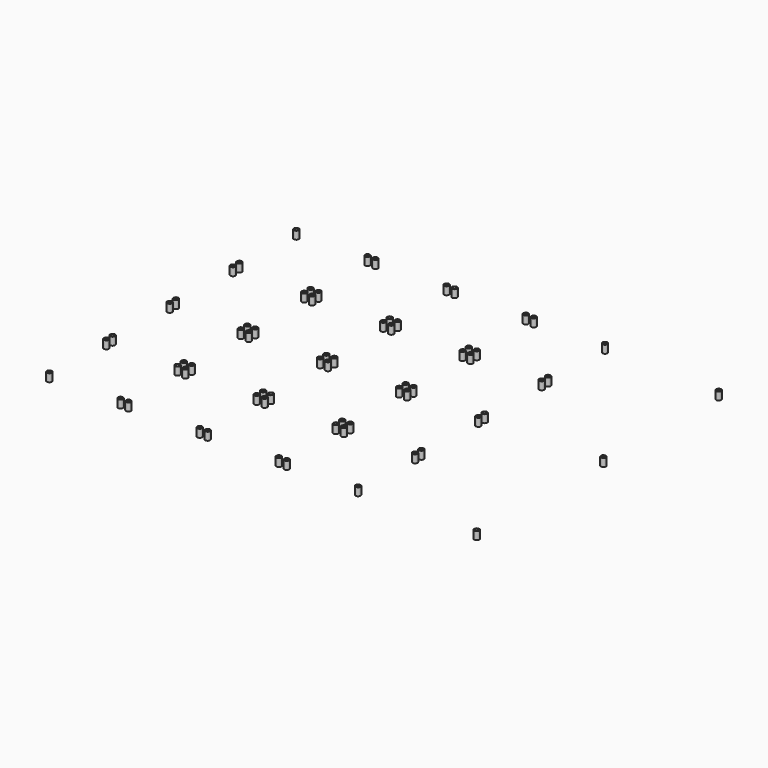
from build123d import *

# Parameters (mm, degrees)
CYLINDER015_R     = 1.1
CYLINDER015_DEPTH = 5
CYLINDER014_R     = 1.6
CYLINDER014_DEPTH = 5
ARRAY020_X_COUNT  = 2
ARRAY020_X_PITCH  = 45
ARRAY020_Y_COUNT  = 2
ARRAY020_Y_PITCH  = 45
ARRAY021_X_COUNT  = 4
ARRAY021_X_PITCH  = 50
ARRAY021_Y_COUNT  = 4
ARRAY021_Y_PITCH  = 50


with BuildPart() as cylinder015:
    # Cylinder015 → Cylinder015 (new body)
    with BuildSketch(Plane.XY):
        Circle(CYLINDER015_R)
    extrude(amount=CYLINDER015_DEPTH)


with BuildPart() as cut029:
    # Cylinder014 → Cylinder014 (new body)
    with BuildSketch(Plane.XY):
        Circle(CYLINDER014_R)
    extrude(amount=CYLINDER014_DEPTH)

    # Cut029: cut Cylinder015
    add(cylinder015.part, mode=Mode.SUBTRACT)


with BuildPart() as cut029_1:
    # Cut029 placement: moved
    add(cut029.part.moved(Location((2.5, -2.5, -5.8))))


with BuildPart() as clone_of_cut029:
    # Clone020 base: copy of Cut029
    add(cut029_1.part)


with BuildPart() as clone_of_cut029_1:
    # Clone020 placement: moved
    add(clone_of_cut029.part.moved(Location((270, -4, 0))))


with BuildPart() as clone_of_clone_of_cut029:
    # Clone021 base: copy of Clone of Cut029
    add(clone_of_cut029_1.part)


with BuildPart() as clone_of_clone_of_cut029_1:
    # Clone021 placement: moved
    add(clone_of_clone_of_cut029.part.moved(Location((0, -91, 0))))


with BuildPart() as clone_of_clone_of_clone_of_cut029:
    # Clone022 base: copy of Clone of Clone of Cut029
    add(clone_of_clone_of_cut029_1.part)


with BuildPart() as clone_of_clone_of_clone_of_cut029_1:
    # Clone022 placement: moved
    add(clone_of_clone_of_clone_of_cut029.part.moved(Location((0, -100, 0))))


with BuildPart() as standoffs:
    # Array020 base: copy of Cut029
    add(cut029_1.part)

    # Array020 X: Standoffs ×2


with BuildPart() as standoffs_1:
    add(standoffs.part)
    with Locations(*[(i * ARRAY020_X_PITCH, 0, 0) for i in range(1, ARRAY020_X_COUNT)]):
        add(standoffs.part)

    # Array020 Y: Standoffs ×2


with BuildPart() as standoffs_2:
    add(standoffs_1.part)
    with Locations(*[(0, -i * ARRAY020_Y_PITCH, 0) for i in range(1, ARRAY020_Y_COUNT)]):
        add(standoffs_1.part)

    # Array021 X: Standoffs ×4


with BuildPart() as standoffs_3:
    add(standoffs_2.part)
    with Locations(*[(i * ARRAY021_X_PITCH, 0, 0) for i in range(1, ARRAY021_X_COUNT)]):
        add(standoffs_2.part)

    # Array021 Y: Standoffs ×4


with BuildPart() as standoffs_4:
    add(standoffs_3.part)
    with Locations(*[(0, -i * ARRAY021_Y_PITCH, 0) for i in range(1, ARRAY021_Y_COUNT)]):
        add(standoffs_3.part)

    # Fusion018: union Clone of Cut029, Clone of Clone of Cut029, Clone of Clone of Clone of Cut029
    add(clone_of_cut029_1.part)
    add(clone_of_clone_of_cut029_1.part)
    add(clone_of_clone_of_clone_of_cut029_1.part)


solid = standoffs_4.part
